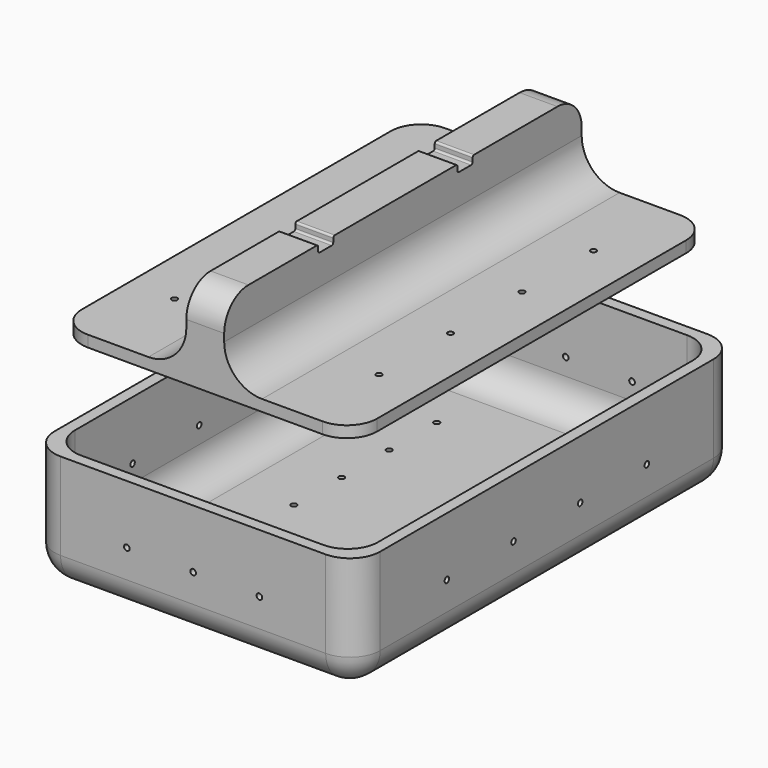
from build123d import *

# Parameters (mm, degrees)
SKETCH_W        = 86
SKETCH_H        = 126
PAD_DEPTH       = 31
SKETCH001_W     = 80
SKETCH001_H     = 120
POCKET_DEPTH    = 28
FILLET_R        = 8
SKETCH006_R     = 0.75
POCKET003_DEPTH = 86.001
SKETCH007_R     = 0.75
POCKET004_DEPTH = 126.001
SKETCH008_R     = 0.75
POCKET005_DEPTH = 342.340043
SKETCH002_W     = 78
SKETCH002_H     = 118
PAD001_DEPTH    = 3
SKETCH003_W     = 10
SKETCH003_H     = 118
PAD002_DEPTH    = 20
FILLET001_R     = 8
FILLET002_R     = 10
SKETCH004_W     = 10
SKETCH004_H     = 5
POCKET001_DEPTH = 2
FILLET003_R     = 0.5
FILLET004_R     = 8
SKETCH005_R     = 0.75
POCKET002_DEPTH = 3


with BuildPart() as box:
    # Sketch → Pad (new body)
    with BuildSketch(Plane.XY):
        Rectangle(SKETCH_W, SKETCH_H)
    extrude(amount=PAD_DEPTH)

    # Sketch001 (on Face6 of Pad) → Pocket (cut)
    with BuildSketch(Plane.XY.offset(31)):
        Rectangle(SKETCH001_W, SKETCH001_H)
    extrude(amount=-POCKET_DEPTH, mode=Mode.SUBTRACT)

    # Fillet
    fillet_edges = [box.edges().sort_by_distance(p)[0] for p in [
        (43, -63, 15.5),
        (40, -60, 17),
        (40, 0, 3),
        (0, -60, 3),
        (-40, -60, 17),
        (-40, 0, 3),
        (-40, 60, 17),
        (0, 60, 3),
        (40, 60, 17),
        (43, 63, 15.5),
        (-43, 63, 15.5),
        (-43, -63, 15.5),
        (-43, 0, 0),
        (0, 63, 0),
        (43, 0, 0),
        (0, -63, 0),
    ]]
    fillet(fillet_edges, radius=FILLET_R)

    # Sketch006 (on Face6 of Fillet) → Pocket003 (cut, through all)
    with BuildSketch(Plane(origin=(-43, 0, 0), x_dir=(0, -1, 0), z_dir=(-1, 0, 0))):
        with Locations((-33, 15.5)):
            Circle(SKETCH006_R)
        with Locations((33, 15.5)):
            Circle(SKETCH006_R)
        with Locations((-11, 15.5)):
            Circle(SKETCH006_R)
        with Locations((11, 15.5)):
            Circle(SKETCH006_R)
    extrude(amount=-POCKET003_DEPTH, mode=Mode.SUBTRACT)

    # Sketch007 (on Face10 of Pocket003) → Pocket004 (cut, through all)
    with BuildSketch(Plane.XZ.offset(63)):
        with Locations((-17.5, 15.5)):
            Circle(SKETCH007_R)
        with Locations((0, 15.5)):
            Circle(SKETCH007_R)
        with Locations((17.5, 15.5)):
            Circle(SKETCH007_R)
    extrude(amount=-POCKET004_DEPTH, mode=Mode.SUBTRACT)

    # Sketch008 (on Face24 of Pocket004) → Pocket005 (cut, through all)
    with BuildSketch(Plane(origin=(0, 0, 0), x_dir=(1, 0, 0), z_dir=(0, 0, -1))):
        with Locations((-17.5, 39.285714)):
            Circle(SKETCH008_R)
        with Locations((-17.5, 23.571429)):
            Circle(SKETCH008_R)
        with Locations((-17.5, 7.857143)):
            Circle(SKETCH008_R)
        with Locations((-17.5, -7.857143)):
            Circle(SKETCH008_R)
        with Locations((-17.5, -23.571429)):
            Circle(SKETCH008_R)
        with Locations((-17.5, -39.285714)):
            Circle(SKETCH008_R)
    pocket005 = extrude(amount=-POCKET005_DEPTH, mode=Mode.SUBTRACT)

    # Mirrored001: Pocket005 across Sketch008 V_Axis
    add(pocket005.mirror(Plane(origin=(0, 0, 0), x_dir=(0, 0, -1), z_dir=(1, 0, 0))), mode=Mode.SUBTRACT)


with BuildPart() as lid:
    # Sketch002 → Pad001 (new body)
    with BuildSketch(Plane.XY):
        Rectangle(SKETCH002_W, SKETCH002_H)
    extrude(amount=PAD001_DEPTH)

    # Sketch003 (on Face6 of Pad001) → Pad002 (join)
    with BuildSketch(Plane.XY.offset(3)):
        Rectangle(SKETCH003_W, SKETCH003_H)
    extrude(amount=PAD002_DEPTH)

    # Fillet001
    fillet001_edges = [lid.edges().sort_by_distance(p)[0] for p in [
        (39, -59, 1.5),
        (39, 59, 1.5),
        (-39, 59, 1.5),
        (-39, -59, 1.5),
    ]]
    fillet(fillet001_edges, radius=FILLET001_R)

    # Fillet002
    fillet002_edges = [lid.edges().sort_by_distance(p)[0] for p in [
        (-5, 0, 3),
        (5, 0, 3),
    ]]
    fillet(fillet002_edges, radius=FILLET002_R)

    # Sketch004 (on Face13 of Fillet002) → Pocket001 (cut)
    with BuildSketch(Plane.XY.offset(23)):
        with Locations((0, 20.5)):
            Rectangle(SKETCH004_W, SKETCH004_H)
        with Locations((0, -25.5)):
            Rectangle(SKETCH004_W, SKETCH004_H)
    extrude(amount=-POCKET001_DEPTH, mode=Mode.SUBTRACT)

    # Fillet003
    fillet003_edges = [lid.edges().sort_by_distance(p)[0] for p in [
        (0, 23, 23),
        (0, 23, 21),
        (0, 18, 23),
        (0, 18, 21),
        (0, -23, 23),
        (0, -23, 21),
        (0, -28, 21),
        (0, -28, 23),
    ]]
    fillet(fillet003_edges, radius=FILLET003_R)

    # Fillet004
    fillet004_edges = [lid.edges().sort_by_distance(p)[0] for p in [
        (0, 59, 23),
        (0, -59, 23),
    ]]
    fillet(fillet004_edges, radius=FILLET004_R)

    # Sketch005 (on Face27 of Fillet004) → Pocket002 (cut)
    with BuildSketch(Plane.XY.offset(3)):
        with Locations((-27, 35.4)):
            Circle(SKETCH005_R)
        with Locations((-27, 11.8)):
            Circle(SKETCH005_R)
        with Locations((-27, -11.8)):
            Circle(SKETCH005_R)
        with Locations((-27, -35.4)):
            Circle(SKETCH005_R)
    pocket002 = extrude(amount=-POCKET002_DEPTH, mode=Mode.SUBTRACT)

    # Mirrored: Pocket002 across Sketch005 V_Axis
    add(pocket002.mirror(Plane(origin=(0, 0, 3), x_dir=(0, 0, 1), z_dir=(1, 0, 0))), mode=Mode.SUBTRACT)


with BuildPart() as lid_1:
    # Body001 placement: moved
    add(lid.part.moved(Location((0, 0, 56))))


solid = Compound([box.part, lid_1.part])
